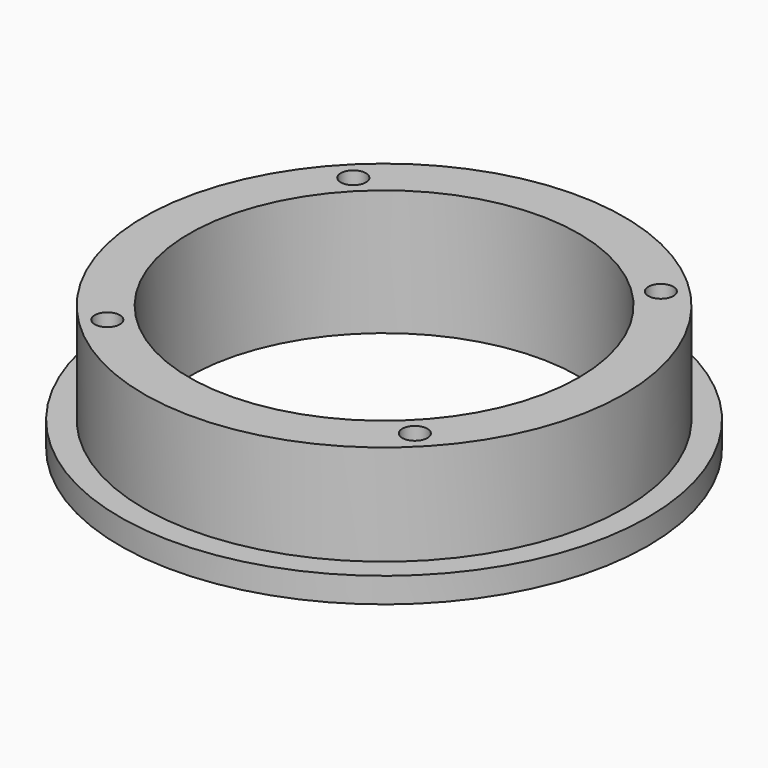
from build123d import *

# Parameters (mm, degrees)
F0_R     = 21
F1_DEPTH = 2
F2_R     = 19.1
F3_DEPTH = 8
F4_R     = 15.5
F5_DEPTH = 10
F6_R     = 1
F7_DEPTH = 8


with BuildPart() as f1:
    # F0 (on Top) → F1 (new body)
    with BuildSketch(Plane.XY):
        Circle(F0_R)
    extrude(amount=F1_DEPTH)

    # F2 (on face) → F3 (join)
    with BuildSketch(Plane.XY.offset(2)):
        Circle(F2_R)
    extrude(amount=F3_DEPTH)

    # F4 (on face) → F5 (cut, through all)
    with BuildSketch(Plane(origin=(0, 0, 0), x_dir=(1, 0, 0), z_dir=(0, 0, -1))):
        Circle(F4_R)
    extrude(amount=-F5_DEPTH, mode=Mode.SUBTRACT)

    # F6 (on face) → F7 (cut)
    with BuildSketch(Plane.XY.offset(10)):
        with Locations((-12.232947, 12.232947)):
            Circle(F6_R)
        with Locations((12.232947, 12.232947)):
            Circle(F6_R)
        with Locations((-12.232947, -12.232947)):
            Circle(F6_R)
        with Locations((12.232947, -12.232947)):
            Circle(F6_R)
    extrude(amount=-F7_DEPTH, mode=Mode.SUBTRACT)


solid = f1.part
